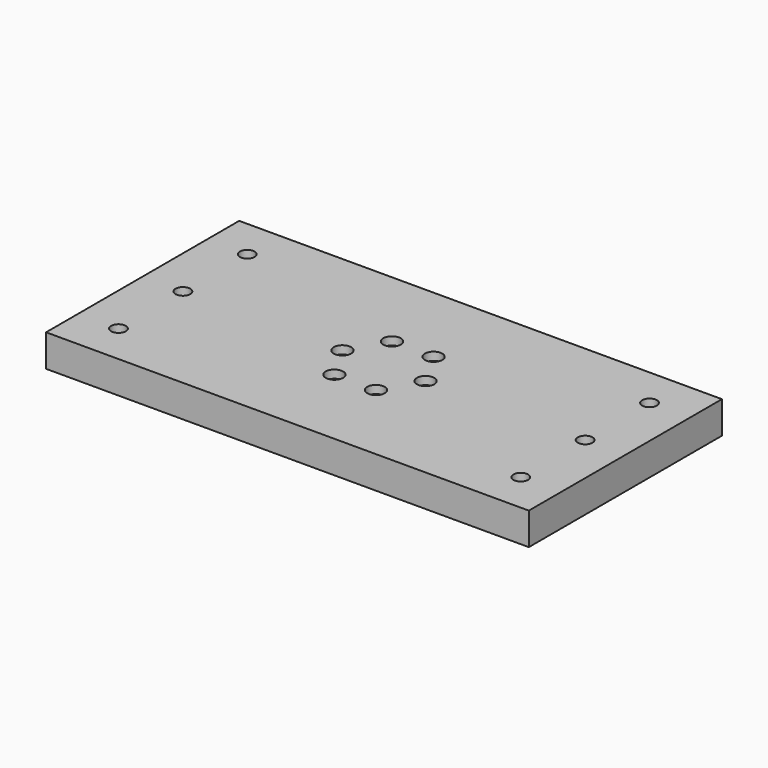
from build123d import *

# Parameters (mm, degrees)
F0_W           = 180
F0_H           = 90
F0_R           = 42.5
F0_R_2         = 30
F1_DEPTH       = 12
F2_D           = 5.5
F2_CBORE_D     = 9.75
F2_CBORE_DEPTH = 5
F4_D           = 3.3
F4_CBORE_D     = 6.5
F4_CBORE_DEPTH = 3
F5_DEPTH       = 9


with BuildPart() as f1:
    # F0 (on Top) → F1 (new body)
    with BuildSketch(Plane.XY):
        Rectangle(F0_W, F0_H)
        Circle(F0_R, mode=Mode.SUBTRACT)
        Circle(F0_R)
        Circle(F0_R_2, mode=Mode.SUBTRACT)
        Circle(F0_R_2)
    extrude(amount=F1_DEPTH)

    # F2 (through all)
    with Locations(Plane(origin=(0, 0, 0), x_dir=(1, 0, 0), z_dir=(0, 0, -1))):
        with Locations((75, 30), (75, 0), (75, -30), (-75, -30), (-75, 0), (-75, 30)):
            CounterBoreHole(F2_D / 2, F2_CBORE_D / 2, F2_CBORE_DEPTH)

    # F4 (through all)
    with Locations(Plane.XY.offset(12)):
        with Locations((-15.5, 0), (-7.75, 13.4233937587), (7.75, 13.4233937587), (15.5, 0), (7.75, -13.4233937587), (-7.75, -13.4233937587)):
            CounterBoreHole(F4_D / 2, F4_CBORE_D / 2, F4_CBORE_DEPTH)

    # F0 (on Top) → F5 (cut)
    with BuildSketch(Plane.XY):
        Circle(F0_R)
        Circle(F0_R_2, mode=Mode.SUBTRACT)
    extrude(amount=F5_DEPTH, mode=Mode.SUBTRACT)


solid = f1.part
